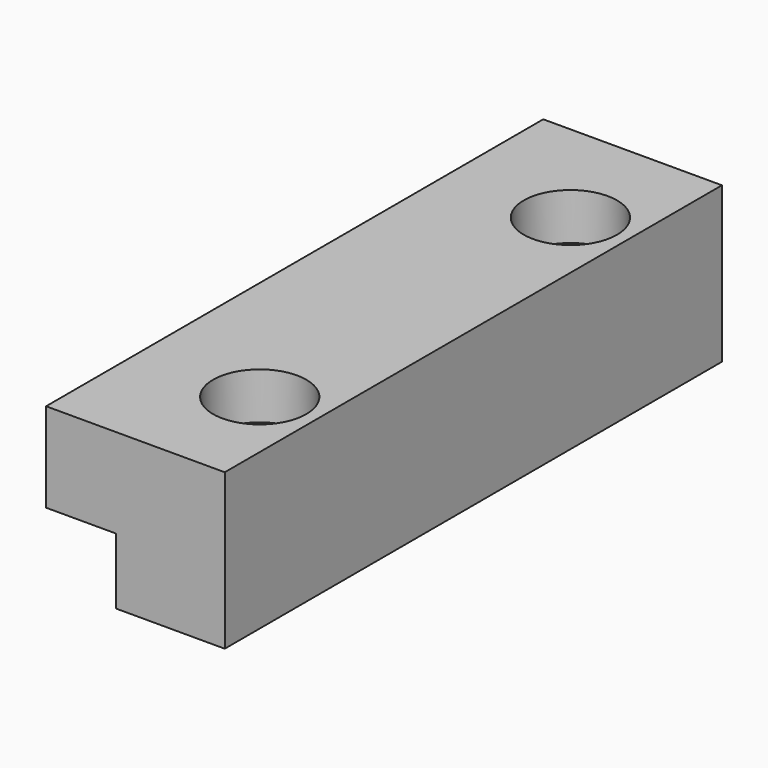
from build123d import *

# Parameters (mm, degrees)
F1_DEPTH = 80
F2_R     = 3.25
F3_DEPTH = 20.001
F4_R     = 6
F4_R_2   = 3.25
F5_DEPTH = 6


with BuildPart() as f1:
    # F0 (on Front) → F1 (new body)
    with BuildSketch(Plane.XZ):
        Polygon((-14, 0), (0, 0), (0, 20), (-23, 20), (-23, 8.5), (-14, 8.5), align=None)
    extrude(amount=F1_DEPTH)

    # F2 (on face) → F3 (cut, through all)
    with BuildSketch(Plane.XY.offset(20)):
        with Locations((-7.5, -15)):
            Circle(F2_R)
        with Locations((-7.5, -65)):
            Circle(F2_R)
    extrude(amount=-F3_DEPTH, mode=Mode.SUBTRACT)

    # F4 (on face) → F5 (cut)
    with BuildSketch(Plane.XY.offset(20)):
        with Locations((-7.5, -15)):
            Circle(F4_R)
        with Locations((-7.5, -15)):
            Circle(F4_R_2, mode=Mode.SUBTRACT)
        with Locations((-7.5, -65)):
            Circle(F4_R)
        with Locations((-7.5, -65)):
            Circle(F4_R_2, mode=Mode.SUBTRACT)
    extrude(amount=-F5_DEPTH, mode=Mode.SUBTRACT)


solid = f1.part
